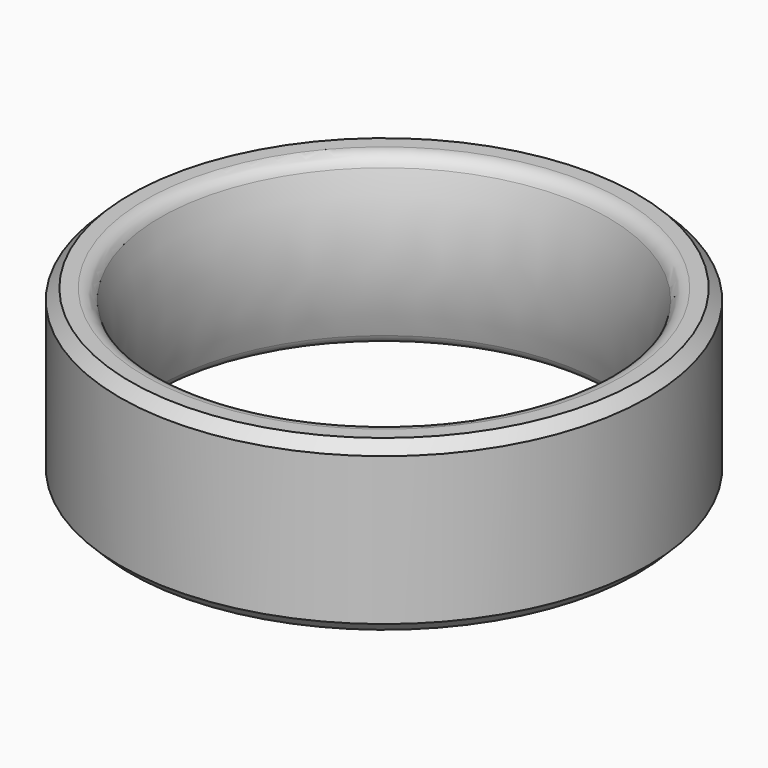
from build123d import *


with BuildPart() as f1:
    # F0 (on Front) → F1 (revolve)
    with BuildSketch(Plane.XZ):
        with BuildLine():
            ThreePointArc((11.31, 8), (10.875595, 7.861385), (10.601763, 7.496779))
            ThreePointArc((10.601763, 7.496779), (10.01, 4), (10.601763, 0.503221))
            ThreePointArc((10.601763, 0.503221), (10.875595, 0.138615), (11.31, 0))
            Line((11.31, 0), (11.31, 8))
        make_face()
    revolve(axis=Axis((0, 0, 8.937099), (0, 0, 1)))


with BuildPart() as f2:
    # F0 (on Front) → F2 (revolve)
    with BuildSketch(Plane.XZ):
        Polygon((12.01, 8), (11.31, 8), (11.31, 0), (12.01, 0), (12.51, 0.5), (12.51, 7.5), align=None)
    revolve(axis=Axis((0, 0, 8.937099), (0, 0, 1)))


solid = Compound([f1.part, f2.part])
